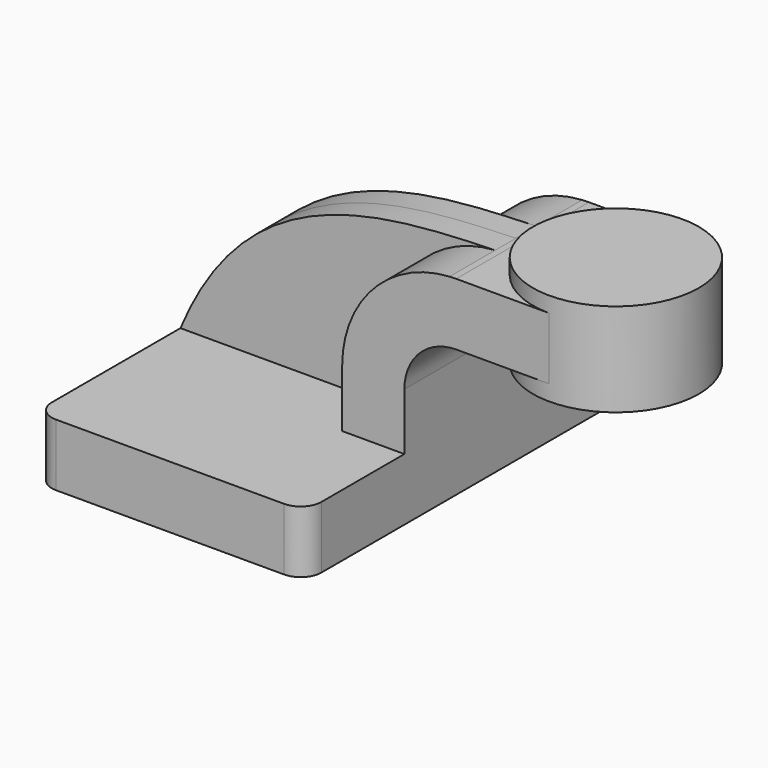
from build123d import *

# Parameters (mm, degrees)
F1_DEPTH = 63.5
F0_W     = 25.167999
F0_H     = 19.05
F2_DEPTH = 25.4
F3_DEPTH = 7.9375
F5_R     = 6.35


with BuildPart() as f1:
    # F0 (on Front) → F1 (new body, symmetric)
    with BuildSketch(Plane.XZ):
        Polygon((22.225, 9.525), (-41.275, 9.525), (-41.275, -9.525), (41.275, -9.525), (41.275, 9.525), align=None)
    extrude(amount=F1_DEPTH, both=True)

    # F0 (on Front) → F2 (join, symmetric)
    with BuildSketch(Plane.XZ):
        with BuildLine():
            Line((22.225, 27.0002), (22.225, 9.525))
            Line((22.225, 9.525), (41.275, 9.525))
            Line((41.275, 9.525), (41.275, 27.0002))
            ThreePointArc((41.275, 27.0002), (45.92468, 38.22552), (57.15, 42.8752))
            Line((57.15, 42.8752), (60.325, 42.8752))
            Line((60.325, 42.8752), (60.325, 61.9252))
            Line((60.325, 61.9252), (57.15, 61.9252))
            add(Edge.make_bspline(
                [(55.10739, 61.865417), (55.789485, 61.885683), (56.470405, 61.905511), (57.15, 61.9252)],
                knots=[109.448154, 109.448154, 109.448154, 109.448154, 111.504536, 111.504536, 111.504536, 111.504536], degree=3))
            ThreePointArc((55.10739, 61.865417), (31.742385, 50.962853), (22.225, 27.0002))
        make_face()
        with Locations((72.908999, 52.4002)):
            Rectangle(F0_W, F0_H)
    extrude(amount=F2_DEPTH, both=True)

    # F0 (on Front) → F3 (join, symmetric)
    with BuildSketch(Plane.XZ):
        with BuildLine():
            add(Edge.make_bspline(
                [(-41.275, 9.525), (-20.830033, 58.464961), (18.803793, 60.786779), (55.10739, 61.865417)],
                knots=[0, 0, 0, 0, 109.448154, 109.448154, 109.448154, 109.448154], degree=3))
            Line((-41.275, 9.525), (22.225, 9.525))
            Line((22.225, 9.525), (22.225, 27.0002))
            ThreePointArc((22.225, 27.0002), (31.742385, 50.962853), (55.10739, 61.865417))
        make_face()
    extrude(amount=F3_DEPTH, both=True)

    # F0 (on Front) → F4 (revolve)
    with BuildSketch(Plane.XZ):
        Polygon((111.125, 66.675), (85.725, 66.675), (85.725, 52.3875), (85.725, 38.1), (111.125, 38.1), align=None)
    revolve(axis=Axis((85.725, 0, 45.24375), (0, 0, -1)))

    # F5
    f5_edges = [f1.edges().sort_by_distance(p)[0] for p in [
        (41.275, -63.5, 0),
        (-41.275, -63.5, 0),
        (41.275, 63.5, 0),
        (-41.275, 63.5, 0),
    ]]
    fillet(f5_edges, radius=F5_R)


solid = f1.part
